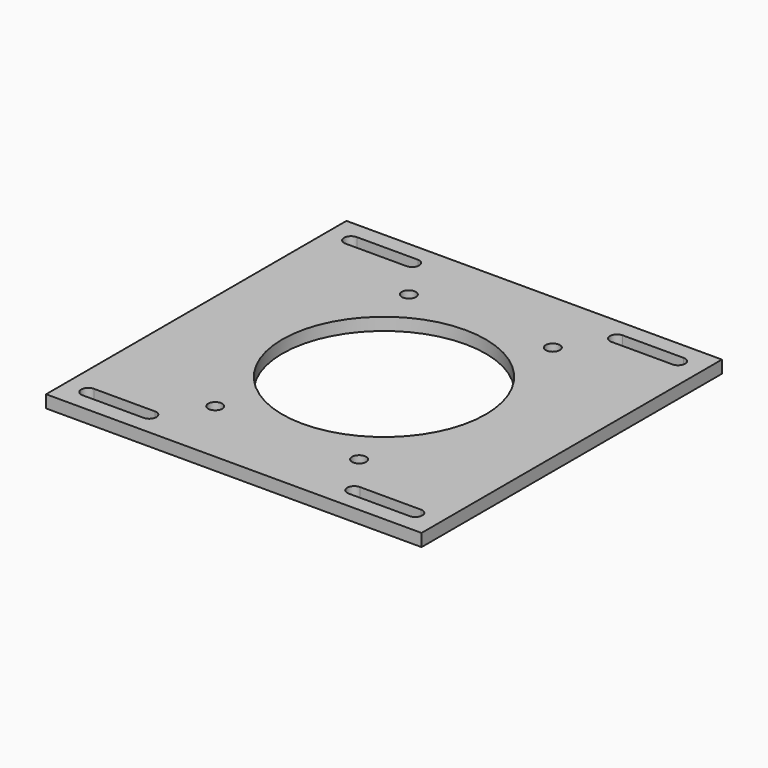
from build123d import *

# Parameters (mm, degrees)
F0_W     = 240
F0_H     = 240
F0_R     = 4.5
F0_R_2   = 65
F1_DEPTH = 8


with BuildPart() as f1:
    # F0 (on Top) → F1 (new body)
    with BuildSketch(Plane.XY):
        with Locations((-0.42114, 0)):
            Rectangle(F0_W, F0_H)
        with BuildLine():
            ThreePointArc((-105.444208, -109.5), (-109.944211, -104.994235), (-105.432677, -100.500015))
            Line((-105.432677, -100.500015), (-66.432677, -100.500015))
            ThreePointArc((-66.432677, -100.500015), (-61.921144, -105.005765), (-66.444208, -109.499941))
            Line((-66.444208, -109.499941), (-105.444208, -109.5))
        make_face(mode=Mode.SUBTRACT)
        with Locations((-46.42114, -77.356318)):
            Circle(F0_R, mode=Mode.SUBTRACT)
        with Locations((45.57886, -77.356318)):
            Circle(F0_R, mode=Mode.SUBTRACT)
        with BuildLine():
            ThreePointArc((64.555792, -109.5), (60.055789, -104.994235), (64.567323, -100.500015))
            Line((64.567323, -100.500015), (103.567323, -100.500015))
            ThreePointArc((103.567323, -100.500015), (108.078856, -105.005765), (103.555792, -109.499941))
            Line((103.555792, -109.499941), (64.555792, -109.5))
        make_face(mode=Mode.SUBTRACT)
        with BuildLine():
            ThreePointArc((-105.444208, 100.5), (-109.944211, 105.005765), (-105.432677, 109.499985))
            Line((-105.432677, 109.499985), (-66.432677, 109.499985))
            ThreePointArc((-66.432677, 109.499985), (-61.921144, 104.994235), (-66.444208, 100.500059))
            Line((-66.444208, 100.500059), (-105.444208, 100.5))
        make_face(mode=Mode.SUBTRACT)
        with Locations((-46.42114, 77.356318)):
            Circle(F0_R, mode=Mode.SUBTRACT)
        with Locations((-0.42114, 0)):
            Circle(F0_R_2, mode=Mode.SUBTRACT)
        with Locations((45.57886, 77.356318)):
            Circle(F0_R, mode=Mode.SUBTRACT)
        with BuildLine():
            ThreePointArc((64.555792, 100.5), (60.055789, 105.005765), (64.567323, 109.499985))
            Line((64.567323, 109.499985), (103.567323, 109.499985))
            ThreePointArc((103.567323, 109.499985), (108.078856, 104.994235), (103.555792, 100.500059))
            Line((103.555792, 100.500059), (64.555792, 100.5))
        make_face(mode=Mode.SUBTRACT)
    extrude(amount=F1_DEPTH)


solid = f1.part
